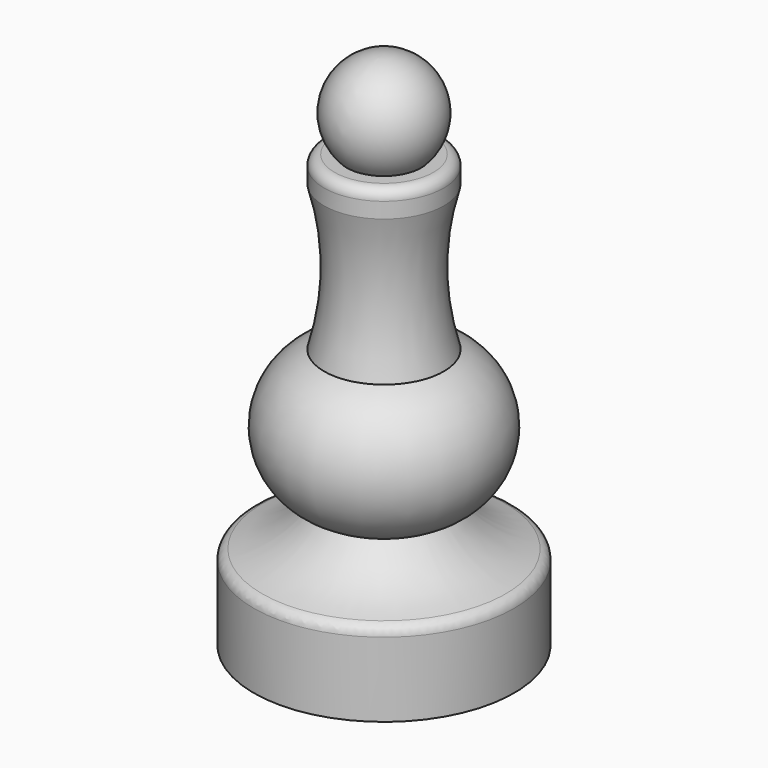
from build123d import *

# Parameters (mm, degrees)
F2_R = 1
F3_R = 1


with BuildPart() as f1:
    # F0 (on Right) → F1 (revolve)
    with BuildSketch(Plane.YZ):
        with BuildLine():
            Line((-12.5, 0), (0, 0))
            Line((0, 0), (0, 50))
            ThreePointArc((0, 50), (-4.609772, 46.936492), (-3.570714, 41.5))
            Line((-3.570714, 41.5), (-5.75, 41.5))
            Line((-5.75, 41.5), (-5.75, 39))
            ThreePointArc((-5.75, 39), (-4.75, 32), (-5.75, 25))
            ThreePointArc((-5.75, 25), (-10.151924, 18.5), (-5.75, 12))
            ThreePointArc((-5.75, 12), (-8.716309, 9.310335), (-12.5, 8))
            Line((-12.5, 8), (-12.5, 0))
        make_face()
    revolve(axis=Axis((0, 0, 25), (0, 0, -1)))

    # F2
    f2_edges = [f1.edges().sort_by_distance(p)[0] for p in [
        (0, 12.5, 8),
    ]]
    fillet(f2_edges, radius=F2_R)

    # F3
    f3_edges = [f1.edges().sort_by_distance(p)[0] for p in [
        (0, 5.75, 41.5),
    ]]
    fillet(f3_edges, radius=F3_R)


solid = f1.part
